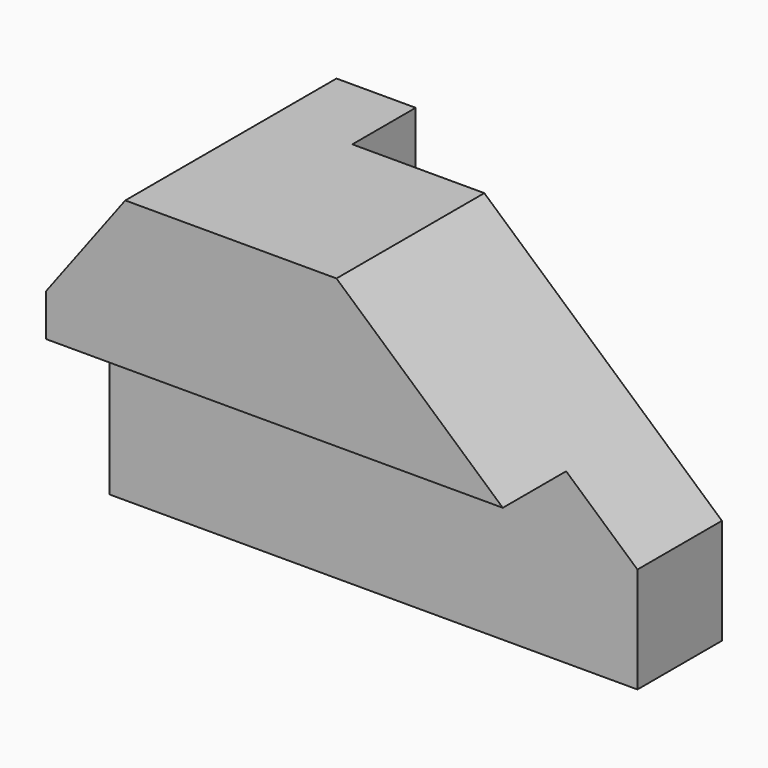
from build123d import *

# Parameters (mm, degrees)
F1_DEPTH = 50
F2_W     = 15
F2_H     = 32
F3_DEPTH = 100
F4_W     = 70
F4_H     = 15
F5_DEPTH = 60
F7_DEPTH = 50
F9_DEPTH = 35


with BuildPart() as f1:
    # F0 (on Front) → F1 (new body)
    with BuildSketch(Plane.XZ):
        Polygon((-100, 0), (0, 0), (0, 20), (0, 60), (-45, 60), (-100, 60), align=None)
    extrude(amount=F1_DEPTH)

    # F2 (on face) → F3 (cut, through all)
    with BuildSketch(Plane.YZ):
        with Locations((-42.5, 16)):
            Rectangle(F2_W, F2_H)
    extrude(amount=-F3_DEPTH, mode=Mode.SUBTRACT)

    # F4 (on face) → F5 (cut, through all)
    with BuildSketch(Plane.XY.offset(60)):
        with Locations((-35, -7.5)):
            Rectangle(F4_W, F4_H)
    extrude(amount=-F5_DEPTH, mode=Mode.SUBTRACT)

    # F6 (on face) → F7 (cut, through all)
    with BuildSketch(Plane.XZ.offset(50)):
        Polygon((-85, 60), (-100, 60), (-100, 40), align=None)
    extrude(amount=-F7_DEPTH, mode=Mode.SUBTRACT)

    # F8 (on face) → F9 (cut, through all)
    with BuildSketch(Plane.XZ.offset(50)):
        Polygon((0, 20), (0, 60), (-45, 60), align=None)
        Polygon((0, 20), (0, 60), (-45, 60), align=None)
    extrude(amount=-F9_DEPTH, mode=Mode.SUBTRACT)


solid = f1.part
